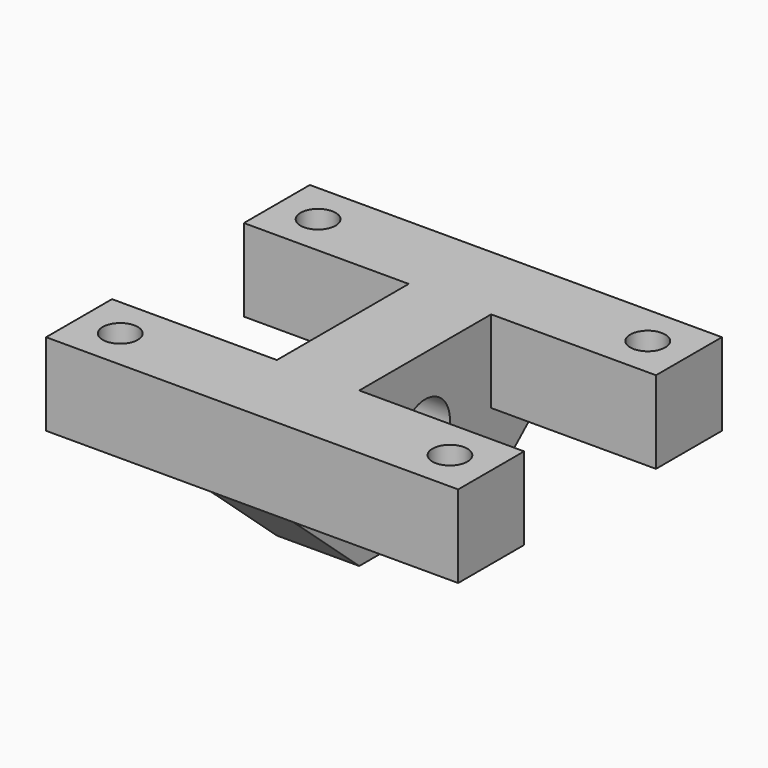
from build123d import *

# Parameters (mm, degrees)
F0_R     = 15
F1_DEPTH = 20
F2_W     = 40
F2_H     = 40
F3_DEPTH = 100
F5_D     = 17


with BuildPart() as f1:
    # F0 (on Right) → F1 (new body, symmetric)
    with BuildSketch(Plane.YZ):
        Polygon((-80, -5), (-40, -40), (40, -40), (80, -5), (80, 35), (-80, 35), align=None)
        Circle(F0_R, mode=Mode.SUBTRACT)
    extrude(amount=F1_DEPTH, both=True)

    # F2 (on Right) → F3 (join, symmetric)
    with BuildSketch(Plane.YZ):
        with Locations((-60, 15)):
            Rectangle(F2_W, F2_H)
        with Locations((60, 15)):
            Rectangle(F2_W, F2_H)
    extrude(amount=F3_DEPTH, both=True)

    # F5 (through all)
    with Locations(Plane.XY.offset(35)):
        with Locations((-80, 60), (80, 60), (80, -60), (-80, -60)):
            Hole(F5_D / 2)


solid = f1.part
